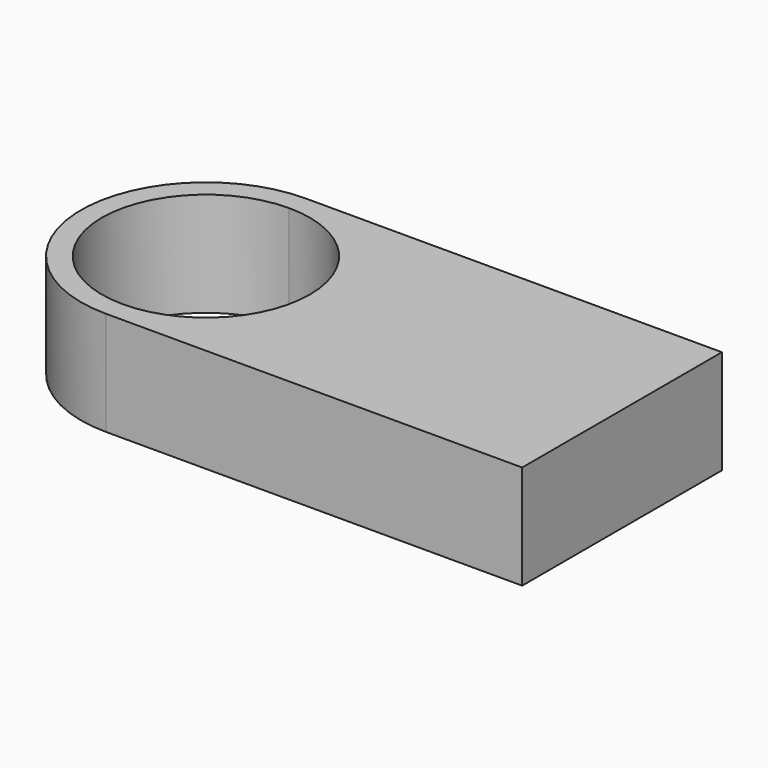
from build123d import *

# Parameters (mm, degrees)
F1_DEPTH = 25


with BuildPart() as f1:
    # F0 (on Top) → F1 (new body)
    with BuildSketch(Plane.XY):
        with BuildLine():
            Line((-50, -30), (50, -30))
            Line((50, -30), (50, 30))
            Line((50, 30), (-50, 30))
            ThreePointArc((-50, 30), (-28.7867965644, 21.2132034356), (-20, 0))
            ThreePointArc((-20, 0), (-28.7867965644, -21.2132034356), (-50, -30))
        make_face()
        with BuildLine():
            ThreePointArc((-50, 30), (-80, 0), (-50, -30))
            Line((-50, -30), (-50, -25))
            ThreePointArc((-50, -25), (-75, 0), (-50, 25))
            Line((-50, 25), (-50, 30))
        make_face()
        with BuildLine():
            Line((-50, -25), (-50, -30))
            ThreePointArc((-50, -30), (-28.7867965644, -21.2132034356), (-20, 0))
            ThreePointArc((-20, 0), (-28.7867965644, 21.2132034356), (-50, 30))
            Line((-50, 30), (-50, 25))
            ThreePointArc((-50, 25), (-32.3223304703, 17.6776695297), (-25, 0))
            ThreePointArc((-25, 0), (-32.3223304703, -17.6776695297), (-50, -25))
        make_face()
    extrude(amount=F1_DEPTH)


solid = f1.part
